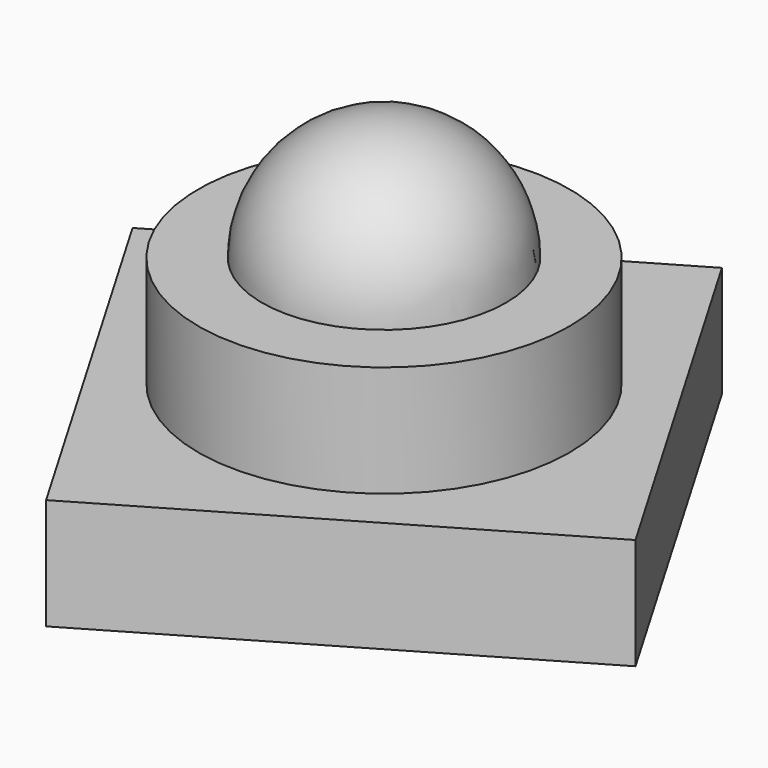
from build123d import *

# Parameters (mm, degrees)
F1_DEPTH = 25.4
F2_R     = 42.411309
F3_DEPTH = 25.4


with BuildPart() as f1:
    # F0 (on Top) → F1 (new body)
    with BuildSketch(Plane.XY):
        Polygon((19.05, 72.694803), (-72.694803, 19.05), (-19.05, -72.694803), (72.694803, -19.05), align=None)
    extrude(amount=F1_DEPTH)

    # F2 (on face) → F3 (join)
    with BuildSketch(Plane.XY.offset(25.4)):
        Circle(F2_R)
    extrude(amount=F3_DEPTH)

    # F4 (on face) → F5 (revolve)
    with BuildSketch(Plane.XY.offset(50.8)):
        with BuildLine():
            Line((0, 27.8892), (0, -27.8892))
            ThreePointArc((0, -27.8892), (27.8892, 0), (0, 27.8892))
        make_face()
    revolve(axis=Axis((0, 0, 50.8), (0, -1, 0)))


solid = f1.part
